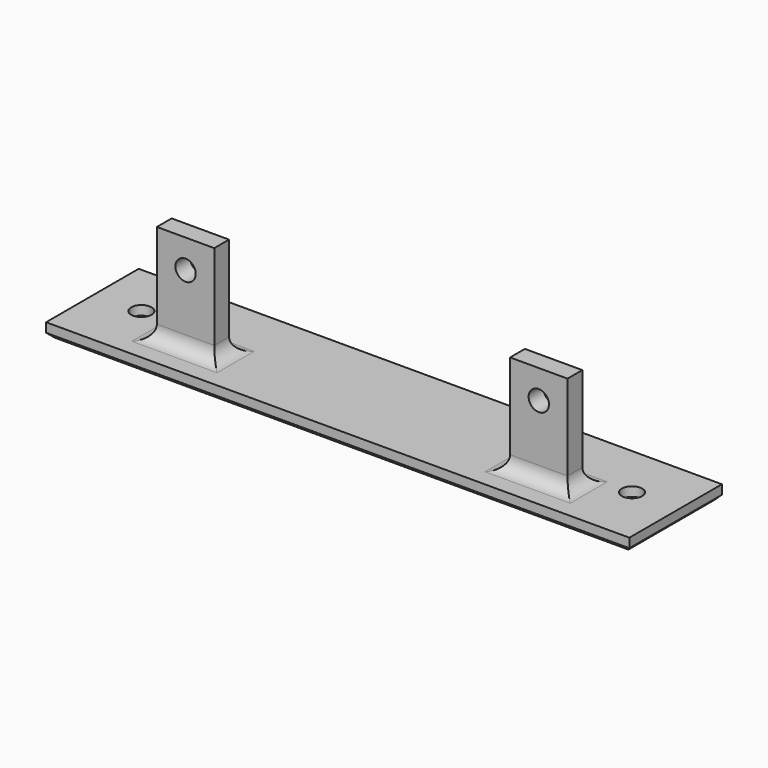
from build123d import *

# Parameters (mm, degrees)
SKETCH_W     = 126
SKETCH_H     = 25
SKETCH_R     = 2.2
PAD_DEPTH    = 3
SKETCH001_W  = 12.4
SKETCH001_H  = 4
PAD001_DEPTH = 21.497
SKETCH002_R  = 2.2
POCKET_DEPTH = 4
CHAMFER_SIZE = 1
FILLET_R     = 3


with BuildPart() as part:
    # Sketch → Pad (new body)
    with BuildSketch(Plane.XY):
        Rectangle(SKETCH_W, SKETCH_H)
        with Locations((-53, 0.726)):
            Circle(SKETCH_R, mode=Mode.SUBTRACT)
        with Locations((53, 0.726)):
            Circle(SKETCH_R, mode=Mode.SUBTRACT)
    extrude(amount=PAD_DEPTH)

    # Sketch001 → Pad001 (new body)
    with BuildSketch(Plane.XY.offset(3)):
        with Locations((-38.154, -3.892)):
            Rectangle(SKETCH001_W, SKETCH001_H)
        with Locations((38.154, -3.892)):
            Rectangle(SKETCH001_W, SKETCH001_H)
    extrude(amount=PAD001_DEPTH)

    # Sketch002 → Pocket (cut)
    with BuildSketch(Plane.XZ.offset(5.892)):
        with Locations((-38.154, 18.297)):
            Circle(SKETCH002_R)
    pocket = extrude(amount=-POCKET_DEPTH, mode=Mode.SUBTRACT)

    # Mirrored: Pocket across Sketch002 V_Axis
    add(pocket.mirror(Plane(origin=(0, -5.892, 0), x_dir=(0, -1, 0), z_dir=(1, 0, 0))), mode=Mode.SUBTRACT)

    # Chamfer
    chamfer_edges = [part.edges().sort_by_distance(p)[0] for p in [
        (0, 12.5, 0),
        (63, 0, 0),
        (0, -12.5, 0),
        (-63, 0, 0),
        (50.8, 0.726, 0),
        (-55.2, 0.726, 0),
    ]]
    chamfer(chamfer_edges, length=CHAMFER_SIZE)

    # Fillet
    fillet_edges = [part.edges().sort_by_distance(p)[0] for p in [
        (38.154, -5.892, 3),
        (31.954, -3.892, 3),
        (38.154, -1.892, 3),
        (44.354, -3.892, 3),
        (-38.154, -5.892, 3),
        (-31.954, -3.892, 3),
        (-38.154, -1.892, 3),
        (-44.354, -3.892, 3),
    ]]
    fillet(fillet_edges, radius=FILLET_R)


solid = part.part
